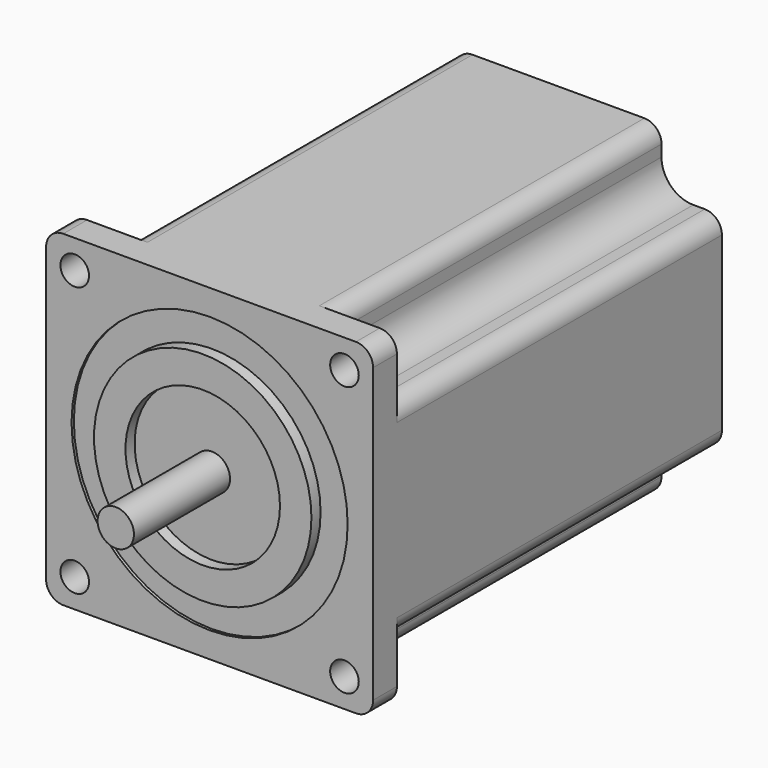
from build123d import *

# Parameters (mm, degrees)
F0_W      = 57.15
F0_H      = 57.15
F1_DEPTH  = 76.2
F2_R      = 2.5
F3_DEPTH  = 76.201
F5_DEPTH  = 71
F6_R      = 3
F7_R      = 24.125
F8_DEPTH  = 0.5
F9_R      = 19
F9_R_2    = 13.5
F10_DEPTH = 2
F11_R     = 3.175
F12_DEPTH = 21


with BuildPart() as f1:
    # F0 (on Front) → F1 (new body)
    with BuildSketch(Plane.XZ):
        Rectangle(F0_W, F0_H)
    extrude(amount=-F1_DEPTH)

    # F2 (on face) → F3 (cut, through all)
    with BuildSketch(Plane.XZ):
        with Locations((-23.57, 23.57)):
            Circle(F2_R)
        with Locations((23.57, 23.57)):
            Circle(F2_R)
        with Locations((-23.57, -23.57)):
            Circle(F2_R)
        with Locations((23.57, -23.57)):
            Circle(F2_R)
    extrude(amount=-F3_DEPTH, mode=Mode.SUBTRACT)

    # F4 (on face) → F5 (cut)
    with BuildSketch(Plane(origin=(0, 76.2, 0), x_dir=(-1, 0, 0), z_dir=(0, 1, 0))):
        with BuildLine():
            Line((-28.575, 18.02), (-23.57, 18.02))
            ThreePointArc((-23.57, 18.02), (-19.6455573644, 19.6455573644), (-18.02, 23.57))
            Line((-18.02, 23.57), (-18.02, 28.575))
            Line((-18.02, 28.575), (-28.575, 28.575))
            Line((-28.575, 28.575), (-28.575, 18.02))
        make_face()
        with BuildLine():
            Line((18.02, 28.575), (18.02, 23.57))
            ThreePointArc((18.02, 23.57), (19.6455573644, 19.6455573644), (23.57, 18.02))
            Line((23.57, 18.02), (28.575, 18.02))
            Line((28.575, 18.02), (28.575, 28.575))
            Line((28.575, 28.575), (18.02, 28.575))
        make_face()
        with BuildLine():
            ThreePointArc((23.57, -18.02), (19.6455573644, -19.6455573644), (18.02, -23.57))
            Line((18.02, -23.57), (18.02, -28.575))
            Line((18.02, -28.575), (28.575, -28.575))
            Line((28.575, -28.575), (28.575, -18.02))
            Line((28.575, -18.02), (23.57, -18.02))
        make_face()
        with BuildLine():
            ThreePointArc((-18.02, -23.57), (-19.6455573644, -19.6455573644), (-23.57, -18.02))
            Line((-23.57, -18.02), (-28.575, -18.02))
            Line((-28.575, -18.02), (-28.575, -28.575))
            Line((-28.575, -28.575), (-18.02, -28.575))
            Line((-18.02, -28.575), (-18.02, -23.57))
        make_face()
    extrude(amount=-F5_DEPTH, mode=Mode.SUBTRACT)

    # F6
    f6_edges = [f1.edges().sort_by_distance(p)[0] for p in [
        (-18.02, 40.7, 28.575),
        (-28.575, 40.7, 18.02),
        (-28.575, 2.6, 28.575),
        (28.575, 2.6, 28.575),
        (18.02, 40.7, 28.575),
        (28.575, 40.7, 18.02),
        (-28.575, 2.6, -28.575),
        (-28.575, 40.7, -18.02),
        (-18.02, 40.7, -28.575),
        (28.575, 2.6, -28.575),
        (28.575, 40.7, -18.02),
        (18.02, 40.7, -28.575),
    ]]
    fillet(f6_edges, radius=F6_R)

    # F7 (on face) → F8 (cut)
    with BuildSketch(Plane.XZ):
        Circle(F7_R)
    extrude(amount=-F8_DEPTH, mode=Mode.SUBTRACT)

    # F9 (on face) → F10 (join)
    with BuildSketch(Plane.XZ.offset(-0.5)):
        Circle(F9_R)
        Circle(F9_R_2, mode=Mode.SUBTRACT)
    extrude(amount=F10_DEPTH)

    # F11 (on face) → F12 (join)
    with BuildSketch(Plane.XZ.offset(-0.5)):
        Circle(F11_R)
    extrude(amount=F12_DEPTH)


solid = f1.part
